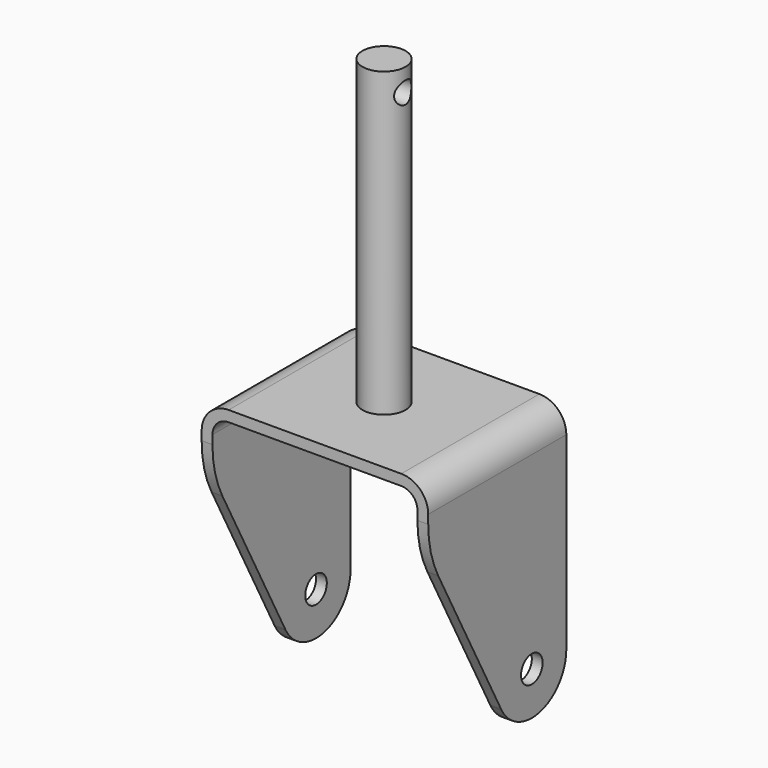
from build123d import *

# Parameters (mm, degrees)
F1_DEPTH = 101.6
F2_R     = 12.7
F3_DEPTH = 177.8
F4_R     = 7.9375
F4_R_2   = 6.35
F5_DEPTH = 177.8


with BuildPart() as f1:
    # F0 (on Front) → F1 (new body)
    with BuildSketch(Plane.XZ):
        with BuildLine():
            Line((-66.675, 136.525), (-66.675, 0))
            Line((-66.675, 0), (-60.325, 0))
            Line((-60.325, 0), (-60.325, 136.525))
            ThreePointArc((-60.325, 136.525), (-57.535192, 143.260192), (-50.8, 146.05))
            Line((-50.8, 146.05), (50.8, 146.05))
            ThreePointArc((50.8, 146.05), (57.535192, 143.260192), (60.325, 136.525))
            Line((60.325, 136.525), (60.325, 0))
            Line((60.325, 0), (66.675, 0))
            Line((66.675, 0), (66.675, 136.525))
            ThreePointArc((66.675, 136.525), (62.02532, 147.75032), (50.8, 152.4))
            Line((50.8, 152.4), (-50.8, 152.4))
            ThreePointArc((-50.8, 152.4), (-62.02532, 147.75032), (-66.675, 136.525))
        make_face()
    extrude(amount=F1_DEPTH)

    # F2 (on face) → F3 (join)
    with BuildSketch(Plane.XY.offset(152.4)):
        with Locations((0, -50.8)):
            Circle(F2_R)
    extrude(amount=F3_DEPTH)

    # F4 (on face) → F5 (cut)
    with BuildSketch(Plane.YZ.offset(66.675)):
        with BuildLine():
            Line((-101.6, 131.336227), (-101.6, 0))
            Line((-101.6, 0), (-25.4, 0))
            ThreePointArc((-25.4, 0), (-38.346191, 3.546942), (-47.676682, 13.197154))
            ThreePointArc((-47.676682, 13.197154), (-47.876619, 13.569464), (-48.070335, 13.945048))
            Line((-48.070335, 13.945048), (-94.291548, 101.759887))
            ThreePointArc((-94.291548, 101.759887), (-99.745816, 116.103258), (-101.6, 131.336227))
        make_face()
        with BuildLine():
            ThreePointArc((-48.070335, 13.945048), (-47.876619, 13.569464), (-47.676682, 13.197154))
            Line((-47.676682, 13.197154), (-48.070335, 13.945048))
        make_face()
        with Locations((-25.4, 25.4)):
            Circle(F4_R)
        with Locations((-50.8, 316.940695)):
            Circle(F4_R_2)
        with BuildLine():
            ThreePointArc((0, 25.4), (-7.439488, 7.439488), (-25.4, 0))
            Line((-25.4, 0), (0, 0))
            Line((0, 0), (0, 25.4))
        make_face()
    extrude(amount=-F5_DEPTH, mode=Mode.SUBTRACT)


solid = f1.part
